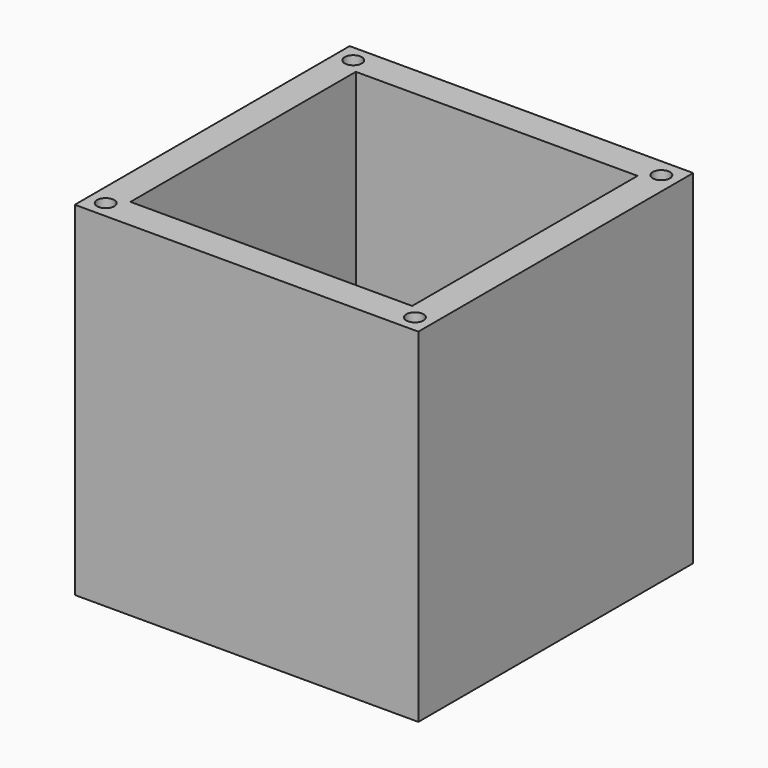
from build123d import *

# Parameters (mm, degrees)
F0_W     = 100
F0_H     = 100
F0_R     = 2.5
F1_DEPTH = 10
F2_W     = 100
F2_H     = 100
F2_R     = 2.5
F2_W_2   = 82
F2_H_2   = 82
F3_DEPTH = 100


with BuildPart() as f1:
    # F0 (on Top) → F1 (new body)
    with BuildSketch(Plane.XY):
        Rectangle(F0_W, F0_H)
        with Locations((-45, -45)):
            Circle(F0_R, mode=Mode.SUBTRACT)
        with Locations((45, -45)):
            Circle(F0_R, mode=Mode.SUBTRACT)
        with Locations((-45, 45)):
            Circle(F0_R, mode=Mode.SUBTRACT)
        with Locations((45, 44.582203)):
            Circle(F0_R, mode=Mode.SUBTRACT)
    extrude(amount=F1_DEPTH)


with BuildPart() as f3:
    # F2 (on Top) → F3 (new body)
    with BuildSketch(Plane.XY):
        Rectangle(F2_W, F2_H)
        with Locations((-45, -45)):
            Circle(F2_R, mode=Mode.SUBTRACT)
        with Locations((45, -45)):
            Circle(F2_R, mode=Mode.SUBTRACT)
        with Locations((-45, 45.062725)):
            Circle(F2_R, mode=Mode.SUBTRACT)
        Rectangle(F2_W_2, F2_H_2, mode=Mode.SUBTRACT)
        with Locations((45, 44.646144)):
            Circle(F2_R, mode=Mode.SUBTRACT)
    extrude(amount=F3_DEPTH)


solid = Compound([f1.part, f3.part])
